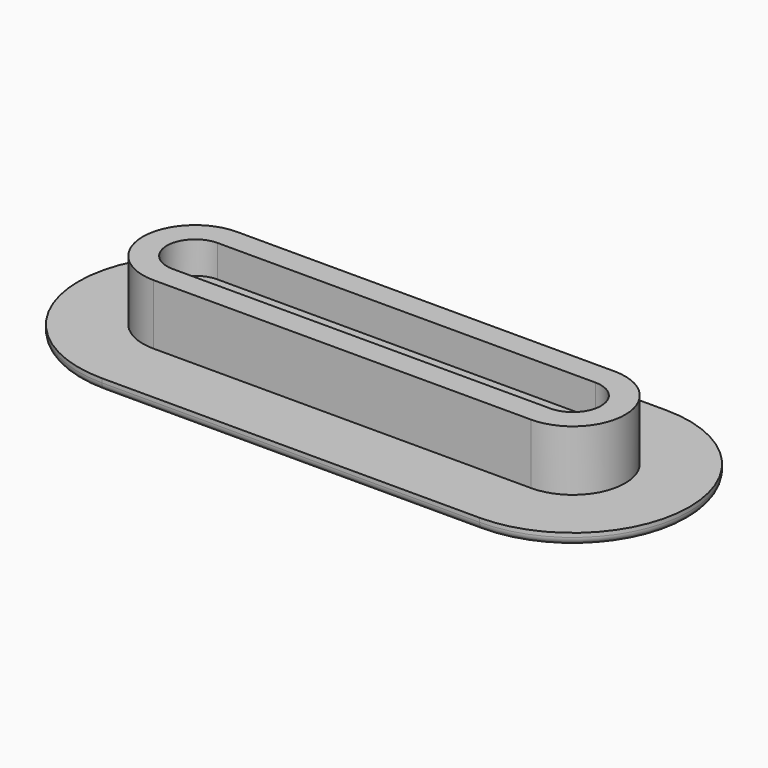
from build123d import *

# Parameters (mm, degrees)
F0_W     = 47
F0_H     = 29
F1_DEPTH = 1.5
F2_W     = 47
F2_H     = 13
F3_DEPTH = 9
F4_T     = -3
F5_R     = 1
F6_DEPTH = 2


with BuildPart() as f1:
    # F0 (on Top) → F1 (new body)
    with BuildSketch(Plane.XY):
        Rectangle(F0_W, F0_H)
        with BuildLine():
            Line((23.5, 14.5), (23.5, -14.5))
            ThreePointArc((23.5, -14.5), (38, 0), (23.5, 14.5))
        make_face()
        with BuildLine():
            ThreePointArc((-23.5, 14.5), (-38, 0), (-23.5, -14.5))
            Line((-23.5, -14.5), (-23.5, 14.5))
        make_face()
    extrude(amount=F1_DEPTH)

    # F2 (on face) → F3 (join)
    with BuildSketch(Plane.XY):
        Rectangle(F2_W, F2_H)
        with BuildLine():
            Line((23.5, 6.5), (23.5, -6.5))
            ThreePointArc((23.5, -6.5), (30, 0), (23.5, 6.5))
        make_face()
        with BuildLine():
            ThreePointArc((-23.5, 6.5), (-30, 0), (-23.5, -6.5))
            Line((-23.5, -6.5), (-23.5, 6.5))
        make_face()
    extrude(amount=F3_DEPTH)

    # F4
    f4_openings = [f1.faces().sort_by_distance(p)[0] for p in [
        (0, 0, 9),
    ]]
    offset(amount=F4_T, openings=f4_openings)

    # F5
    f5_edges = [f1.edges().sort_by_distance(p)[0] for p in [
        (38, 0, 0),
        (0, -14.5, 0),
        (-38, 0, 0),
        (0, 14.5, 0),
    ]]
    fillet(f5_edges, radius=F5_R)

    # F6 (add): a face of the model
    f6_faces = [f1.faces().sort_by_distance(p)[0] for p in [
        (0, 0, 3),
    ]]
    extrude(f6_faces, amount=F6_DEPTH)


solid = f1.part
